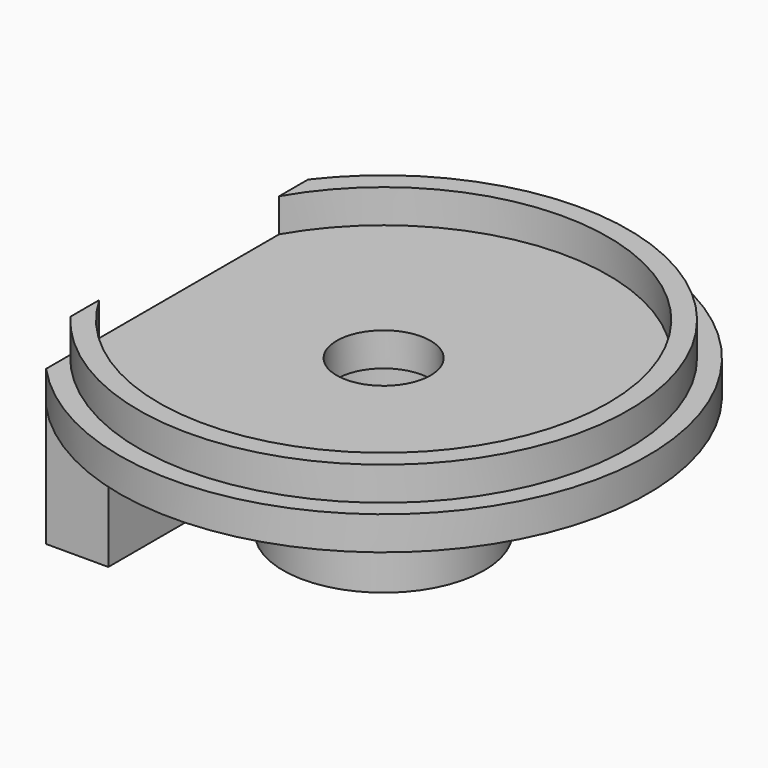
from build123d import *

# Parameters (mm, degrees)
F1_DEPTH = 5
F0_R     = 7
F2_DEPTH = 5
F3_R     = 15
F3_R_2   = 10
F4_DEPTH = 18
F5_W     = 9.2795909345
F5_H     = 53.3426658501
F6_DEPTH = 18
F7_R     = 1.65
F8_DEPTH = 11.3


with BuildPart() as f1:
    # F0 (on Top) → F1 (new body)
    with BuildSketch(Plane.XY):
        with BuildLine():
            Line((-29, -16.7705098312), (-29, -22.1641602593))
            ThreePointArc((-29, -22.1641602593), (36.5, 0), (-29, 22.1641602593))
            Line((-29, 22.1641602593), (-29, 16.7705098312))
            ThreePointArc((-29, 16.7705098312), (33.5, 0), (-29, -16.7705098312))
        make_face()
    extrude(amount=F1_DEPTH)

    # F0 (on Top) → F2 (join)
    with BuildSketch(Plane.XY):
        with BuildLine():
            Line((-29, -22.1641602593), (-29, -26.6713329251))
            ThreePointArc((-29, -26.6713329251), (39.4, 0), (-29, 26.6713329251))
            Line((-29, 26.6713329251), (-29, 22.1641602593))
            ThreePointArc((-29, 22.1641602593), (36.5, 0), (-29, -22.1641602593))
        make_face()
        with BuildLine():
            Line((-29, -16.7705098312), (-29, -22.1641602593))
            ThreePointArc((-29, -22.1641602593), (36.5, 0), (-29, 22.1641602593))
            Line((-29, 22.1641602593), (-29, 16.7705098312))
            ThreePointArc((-29, 16.7705098312), (33.5, 0), (-29, -16.7705098312))
        make_face()
        with BuildLine():
            Line((-29, 16.7705098312), (-29, -16.7705098312))
            ThreePointArc((-29, -16.7705098312), (33.5, 0), (-29, 16.7705098312))
        make_face()
        Circle(F0_R, mode=Mode.SUBTRACT)
    extrude(amount=-F2_DEPTH)

    # F3 (on face) → F4 (join)
    with BuildSketch(Plane(origin=(0, 0, -5), x_dir=(1, 0, 0), z_dir=(0, 0, -1))):
        Circle(F3_R)
        Circle(F3_R_2, mode=Mode.SUBTRACT)
    extrude(amount=F4_DEPTH)

    # F5 (on face) → F6 (join)
    with BuildSketch(Plane(origin=(0, 0, -5), x_dir=(1, 0, 0), z_dir=(0, 0, -1))):
        with Locations((-24.3602045327, 0)):
            Rectangle(F5_W, F5_H)
    extrude(amount=F6_DEPTH)

    # F7 (on face) → F8 (cut)
    with BuildSketch(Plane(origin=(-29, 0, 0), x_dir=(0, -1, 0), z_dir=(-1, 0, 0))):
        with Locations((-18, -13)):
            Circle(F7_R)
        with Locations((0, -13)):
            Circle(F7_R)
        with Locations((18, -13)):
            Circle(F7_R)
    extrude(amount=-F8_DEPTH, mode=Mode.SUBTRACT)


solid = f1.part
